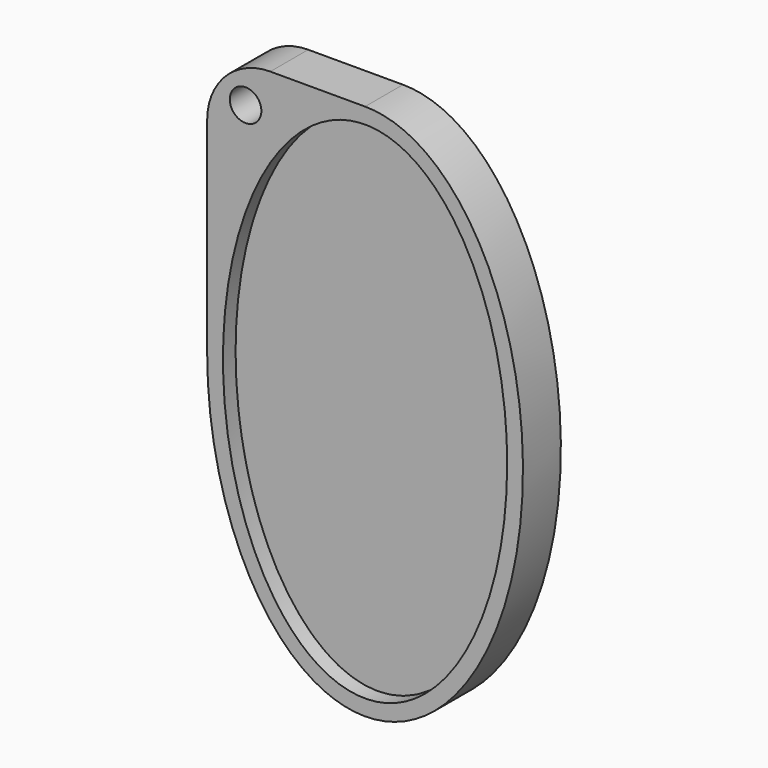
from build123d import *

# Parameters (mm, degrees)
F1_DEPTH = 5
F0_R     = 2.5
F2_DEPTH = 7.5


with BuildPart() as f1:
    # F0 (on Front) → F1 (new body)
    with BuildSketch(Plane.XZ):
        with BuildLine():
            add(Edge.make_bspline(
                [(0, 40), (-22.5, 40), (-22.5, 0)],
                knots=[0, 0, 0, 1.5707963268, 1.5707963268, 1.5707963268], degree=2, weights=[1, 0.7071067812, 1]))
            Line((-22.5, 0), (22.5, 0))
            add(Edge.make_bspline(
                [(22.5, 0), (22.5, 40), (0, 40)],
                knots=[4.7123889804, 4.7123889804, 4.7123889804, 6.2831853072, 6.2831853072, 6.2831853072], degree=2, weights=[1, 0.7071067812, 1]))
        make_face()
        with BuildLine():
            Line((22.5, 0), (-22.5, 0))
            add(Edge.make_bspline(
                [(-22.5, 0), (-22.5, -40), (0, -40), (22.5, -40), (22.5, 0)],
                knots=[1.5707963268, 1.5707963268, 1.5707963268, 3.1415926536, 3.1415926536, 4.7123889804, 4.7123889804, 4.7123889804], degree=2, weights=[1, 0.7071067812, 1, 0.7071067812, 1]))
        make_face()
    extrude(amount=F1_DEPTH)


with BuildPart() as f2:
    # F0 (on Front) → F2 (new body)
    with BuildSketch(Plane.XZ):
        with BuildLine():
            add(Edge.make_bspline(
                [(0, 42.5), (-25, 42.5), (-25, 0)],
                knots=[0, 0, 0, 1.5707963268, 1.5707963268, 1.5707963268], degree=2, weights=[1, 0.7071067812, 1]))
            Line((0, 42.5), (-15, 42.5))
            ThreePointArc((-15, 42.5), (-22.0710678119, 39.5710678119), (-25, 32.5))
            Line((-25, 32.5), (-25, 0))
        make_face()
        with Locations((-18.9194045961, 36.545176059)):
            Circle(F0_R, mode=Mode.SUBTRACT)
        with BuildLine():
            Line((-22.5, 0), (-25, 0))
            add(Edge.make_bspline(
                [(-25, 0), (-25, -42.5), (0, -42.5), (25, -42.5), (25, 0)],
                knots=[1.5707963268, 1.5707963268, 1.5707963268, 3.1415926536, 3.1415926536, 4.7123889804, 4.7123889804, 4.7123889804], degree=2, weights=[1, 0.7071067812, 1, 0.7071067812, 1]))
            Line((25, 0), (22.5, 0))
            add(Edge.make_bspline(
                [(-22.5, 0), (-22.5, -40), (0, -40), (22.5, -40), (22.5, 0)],
                knots=[1.5707963268, 1.5707963268, 1.5707963268, 3.1415926536, 3.1415926536, 4.7123889804, 4.7123889804, 4.7123889804], degree=2, weights=[1, 0.7071067812, 1, 0.7071067812, 1]))
        make_face()
        with BuildLine():
            add(Edge.make_bspline(
                [(25, 0), (25, 42.5), (0, 42.5)],
                knots=[4.7123889804, 4.7123889804, 4.7123889804, 6.2831853072, 6.2831853072, 6.2831853072], degree=2, weights=[1, 0.7071067812, 1]))
            add(Edge.make_bspline(
                [(0, 42.5), (-25, 42.5), (-25, 0)],
                knots=[0, 0, 0, 1.5707963268, 1.5707963268, 1.5707963268], degree=2, weights=[1, 0.7071067812, 1]))
            Line((-25, 0), (-22.5, 0))
            add(Edge.make_bspline(
                [(0, 40), (-22.5, 40), (-22.5, 0)],
                knots=[0, 0, 0, 1.5707963268, 1.5707963268, 1.5707963268], degree=2, weights=[1, 0.7071067812, 1]))
            add(Edge.make_bspline(
                [(22.5, 0), (22.5, 40), (0, 40)],
                knots=[4.7123889804, 4.7123889804, 4.7123889804, 6.2831853072, 6.2831853072, 6.2831853072], degree=2, weights=[1, 0.7071067812, 1]))
            Line((22.5, 0), (25, 0))
        make_face()
    extrude(amount=F2_DEPTH)


solid = Compound([f1.part, f2.part])
